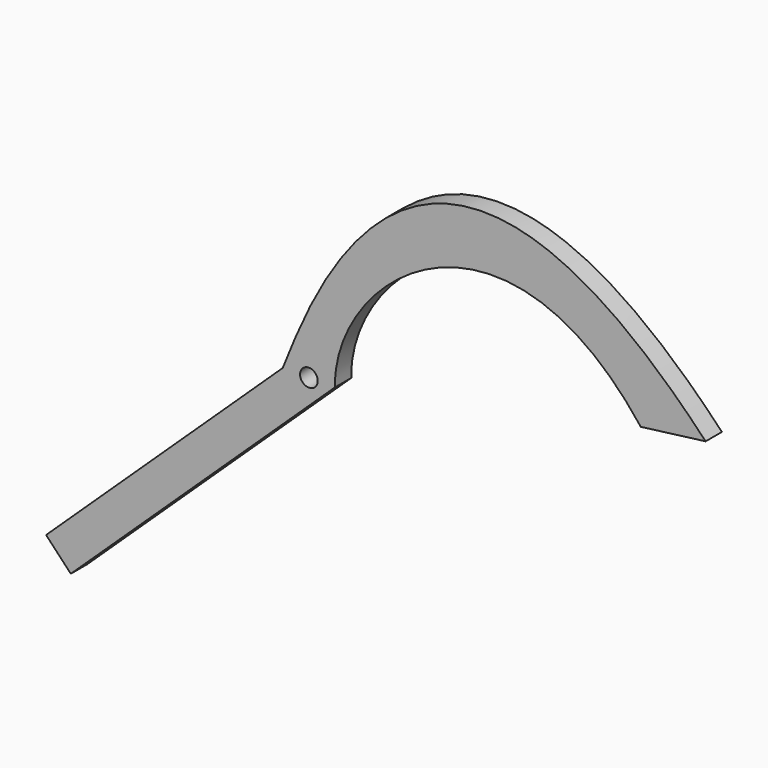
from build123d import *

# Parameters (mm, degrees)
F1_DEPTH = 6.35


with BuildPart() as f1:
    # F0 (on Front) → F1 (new body)
    with BuildSketch(Plane.XZ):
        with BuildLine():
            add(Edge.make_bspline(
                [(-40.100773, 0), (-34.173764, 13.561018), (0, 119.851377), (91.762193, 22.735888)],
                knots=[0, 0, 0, 0, 133.808678, 133.808678, 133.808678, 133.808678], degree=3))
            Line((-40.100773, 0), (-34.694823, 0))
            ThreePointArc((-34.694823, 0), (-31.944823, 2.75), (-29.194823, 0))
            Line((-29.194823, 0), (-23.788873, 0))
            add(Edge.make_bspline(
                [(71.542881, 20.143669), (28.512044, 75.617157), (-24.688871, 32.067876), (-23.788873, 0)],
                knots=[0, 0, 0, 0, 97.436702, 97.436702, 97.436702, 97.436702], degree=3))
            Line((71.542881, 20.143669), (91.762193, 22.735888))
        make_face()
        with BuildLine():
            Line((-34.694823, 0), (-40.100773, 0))
            Line((-40.100773, 0), (-113.888891, -69.841775))
            Line((-113.888891, -69.841775), (-106.180785, -77.985421))
            Line((-106.180785, -77.985421), (-23.788873, 0))
            Line((-23.788873, 0), (-29.194823, 0))
            ThreePointArc((-29.194823, 0), (-31.944823, -2.75), (-34.694823, 0))
        make_face()
    extrude(amount=F1_DEPTH)


solid = f1.part
